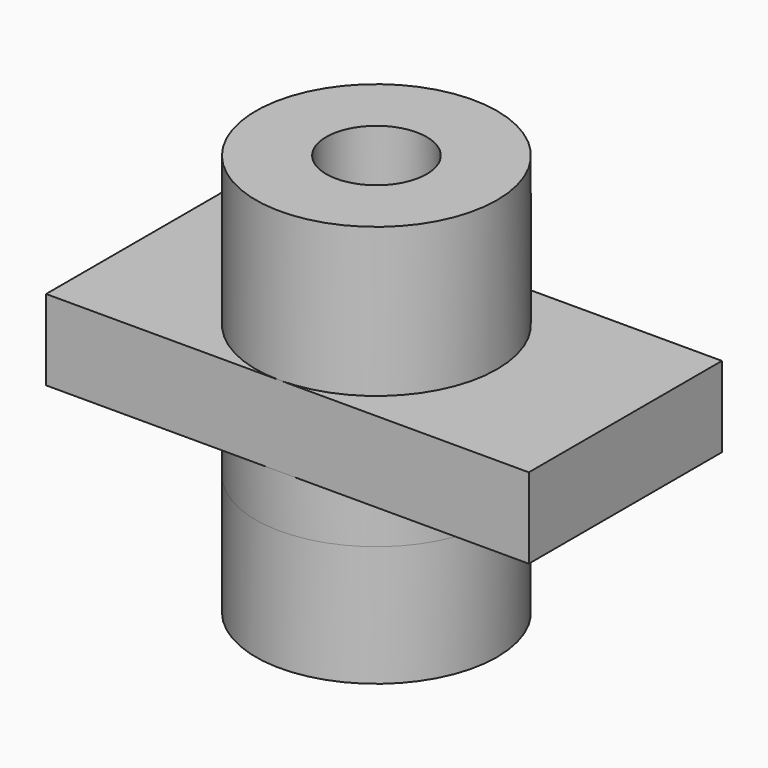
from build123d import *

# Parameters (mm, degrees)
F0_W          = 76.2
F0_H          = 12.7
F1_DEPTH      = 19.05
F2_R          = 19.05
F3_DEPTH      = 19.05
F3_DEPTH_BACK = 8.2509537059
F4_START      = 20.9509537059
F4_DEPTH      = 23.4990462941
F5_R          = 7.9375
F6_DEPTH      = 101.6
F8_START      = 23.32678
F7_R          = 12.7
F8_DEPTH      = 6.84063


with BuildPart() as f1:
    # F0 (on Front) → F1 (new body, symmetric)
    with BuildSketch(Plane.XZ):
        with Locations((1.1919587851, 14.6009537059)):
            Rectangle(F0_W, F0_H)
    extrude(amount=F1_DEPTH, both=True)

    # F2 (on Top) → F3 (join, two sides)
    with BuildSketch(Plane.XY) as f3_sk:
        Circle(F2_R)
    extrude(amount=-F3_DEPTH)
    extrude(f3_sk.sketch, amount=F3_DEPTH_BACK)

    # F2 (on Top) → F4 (join)
    with BuildSketch(Plane.XY.offset(F4_START)):
        Circle(F2_R)
    extrude(amount=F4_DEPTH)

    # F5 (on Top) → F6 (cut, symmetric)
    with BuildSketch(Plane.XY):
        Circle(F5_R)
    extrude(amount=F6_DEPTH, both=True, mode=Mode.SUBTRACT)

    # F7 (on Top) → F8 (cut)
    with BuildSketch(Plane.XY.offset(F8_START)):
        Circle(F7_R)
    extrude(amount=F8_DEPTH, mode=Mode.SUBTRACT)


solid = f1.part
